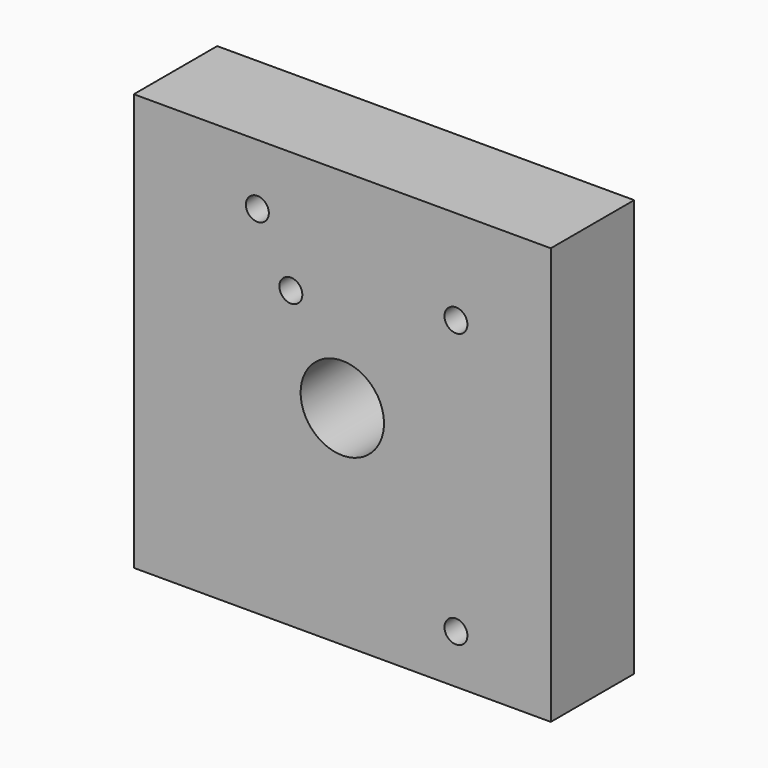
from build123d import *

# Parameters (mm, degrees)
F0_W     = 100
F0_H     = 100
F1_DEPTH = 25
F3_D     = 20
F6_D     = 5.5


with BuildPart() as f1:
    # F0 (on Front) → F1 (new body)
    with BuildSketch(Plane.XZ):
        Rectangle(F0_W, F0_H)
    extrude(amount=F1_DEPTH)

    # F3 (through all)
    with Locations(Plane.XZ.offset(25)):
        with Locations((0, 0)):
            Hole(F3_D / 2)

    # F6 (through all)
    with Locations(Plane.XZ.offset(25)):
        with Locations((27.2540971637, 27.3975413293), (-12.3360659927, 20.7991823554), (-20.3688535839, 35.4303270578), (27.2540971637, -38.2991805673)):
            Hole(F6_D / 2)


solid = f1.part
